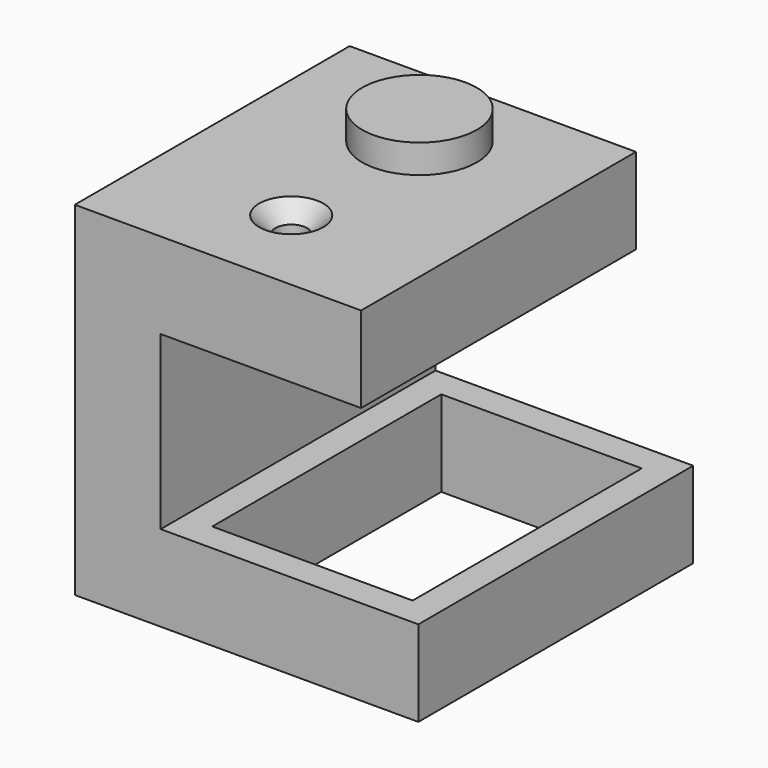
from build123d import *

# Parameters (mm, degrees)
F1_DEPTH       = 30
F2_W           = 35
F2_H           = 50
F3_DEPTH       = 15.001
F5_D           = 5.5
F5_CSINK_D     = 11.2
F5_CSINK_ANGLE = 90
F4_R           = 10
F6_DEPTH       = 5
F7_R           = 8.3224131339
F8_DEPTH       = 5


with BuildPart() as f1:
    # F0 (on Front) → F1 (new body, symmetric)
    with BuildSketch(Plane.XZ):
        Polygon((50, 45), (50, 60), (0, 60), (0, 0), (60, 0), (60, 15), (15, 15), (15, 45), align=None)
    extrude(amount=F1_DEPTH, both=True)

    # F2 (on face) → F3 (cut, through all)
    with BuildSketch(Plane.XY.offset(15)):
        with Locations((37.5, 0)):
            Rectangle(F2_W, F2_H)
    extrude(amount=-F3_DEPTH, mode=Mode.SUBTRACT)

    # F5 (through all)
    with Locations(Plane.XY.offset(60)):
        with Locations((25, -14)):
            CounterSinkHole(F5_D / 2, F5_CSINK_D / 2, counter_sink_angle=F5_CSINK_ANGLE)

    # F4 (on face) → F6 (join)
    with BuildSketch(Plane.XY.offset(60)):
        with Locations((25, 14)):
            Circle(F4_R)
    extrude(amount=F6_DEPTH)

    # F7 (on face) → F8 (join)
    with BuildSketch(Plane.XY.offset(65)):
        with Locations((25, 14)):
            Circle(F7_R)
    extrude(amount=-F8_DEPTH)


solid = f1.part
